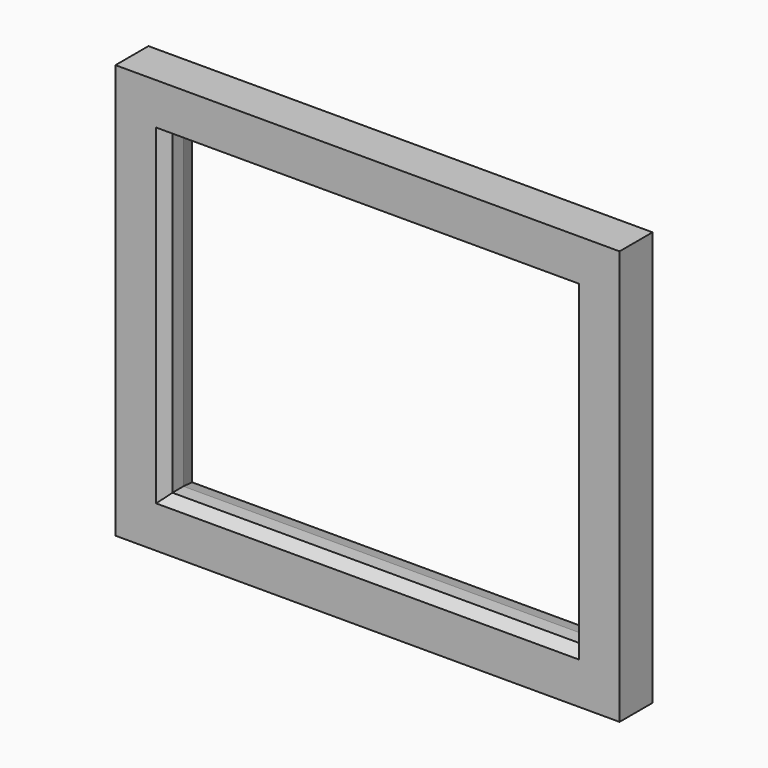
from build123d import *

# Parameters (mm, degrees)
F0_W     = 550
F0_H     = 452
F0_W_2   = 445
F0_H_2   = 345
F1_DEPTH = 22.5
F2_SIZE2 = 5
F2_SIZE  = 18
F3_SIZE2 = 12
F3_SIZE  = 8


with BuildPart() as f1:
    # F0 (on Front) → F1 (new body, symmetric)
    with BuildSketch(Plane.XZ):
        Rectangle(F0_W, F0_H)
        Rectangle(F0_W_2, F0_H_2, mode=Mode.SUBTRACT)
    extrude(amount=F1_DEPTH, both=True)

    # F2
    f2_edges = [f1.edges().sort_by_distance(p)[0] for p in [
        (0, 22.5, -172.5),
        (222.5, 22.5, 0),
        (-222.5, 22.5, 0),
        (0, 22.5, 172.5),
    ]]
    chamfer(f2_edges, length=F2_SIZE, length2=F2_SIZE2)

    # F3
    f3_edges = [f1.edges().sort_by_distance(p)[0] for p in [
        (0, -22.5, -172.5),
        (-222.5, -22.5, 0),
        (222.5, -22.5, 0),
        (0, -22.5, 172.5),
    ]]
    f3_side = f1.faces().sort_by_distance((0, -22.5, 218.880983))[0]
    chamfer(f3_edges, length=F3_SIZE, length2=F3_SIZE2, reference=f3_side)


solid = f1.part
